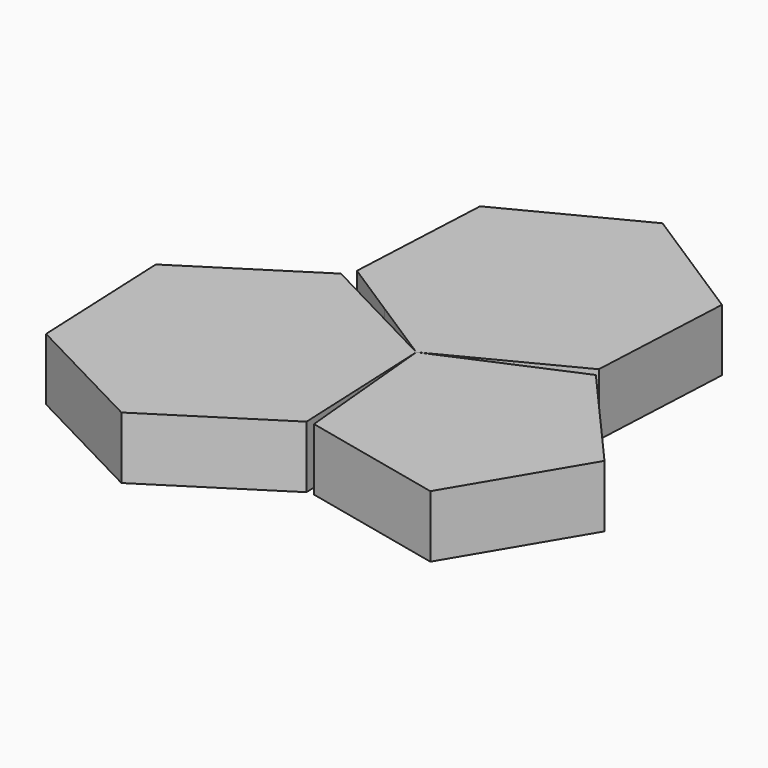
from build123d import *

# Parameters (mm, degrees)
F1_DEPTH = 25.4


with BuildPart() as f1:
    # F0 (on Top) → F1 (new body)
    with BuildSketch(Plane.XY):
        with BuildLine():
            ThreePointArc((-26.6405862454, 17.1343847799), (1.5185193749, 31.6386168502), (28.1591056203, 14.5042320703))
            Line((28.1591056203, 14.5042320703), (52.8595212289, 27.2269571827))
            Line((52.8595212289, 27.2269571827), (55.7100452554, 86.6181239901))
            Line((55.7100452554, 86.6181239901), (5.701048053, 118.7823336148))
            Line((5.701048053, 118.7823336148), (-47.1584731759, 91.5553764322))
            Line((-47.1584731759, 91.5553764322), (-50.0089972024, 32.1642096247))
            Line((-50.0089972024, 32.1642096247), (-26.6405862454, 17.1343847799))
        make_face()
        with BuildLine():
            Line((0, 0), (28.1591056203, 14.5042320703))
            ThreePointArc((28.1591056203, 14.5042320703), (1.5185193749, 31.6386168502), (-26.6405862454, 17.1343847799))
            Line((-26.6405862454, 17.1343847799), (0, 0))
        make_face()
    extrude(amount=F1_DEPTH)


with BuildPart() as f1b:
    # F0 (on Top) → F1, piece 2 (new body)
    with BuildSketch(Plane.XY):
        with BuildLine():
            Line((2.6241702257, -59.4015985694), (1.397937114, -31.6441740153))
            ThreePointArc((1.397937114, -31.6441740153), (-26.705690022, -17.0327360612), (-28.103627136, 14.6114379541))
            Line((-28.103627136, 14.6114379541), (-52.7553784994, 27.4282012053))
            Line((-52.7553784994, 27.4282012053), (-102.886586773, -4.5451961587))
            Line((-102.886586773, -4.5451961587), (-100.2624165472, -63.9467947281))
            Line((-100.2624165472, -63.9467947281), (-47.5070380479, -91.3749959334))
            Line((-47.5070380479, -91.3749959334), (2.6241702257, -59.4015985694))
        make_face()
        with BuildLine():
            Line((1.397937114, -31.6441740153), (0, 0))
            Line((0, 0), (-28.103627136, 14.6114379541))
            ThreePointArc((-28.103627136, 14.6114379541), (-26.705690022, -17.0327360612), (1.397937114, -31.6441740153))
        make_face()
    extrude(amount=F1_DEPTH)


with BuildPart() as f1c:
    # F0 (on Top) → F1, piece 3 (new body)
    with BuildSketch(Plane.XY):
        with BuildLine():
            ThreePointArc((29.0862627469, 12.5418219052), (31.0210930643, 6.4031056823), (31.6750371315, 0))
            ThreePointArc((31.6750371315, 0), (23.413962327, -21.3329403842), (2.9398319575, -31.5383158292))
            Line((2.9398319575, -31.5383158292), (5.5185740578, -59.202884409))
            Line((5.5185740578, -59.202884409), (63.529196227, -72.249105989))
            Line((63.529196227, -72.249105989), (93.8631583783, -21.1092299413))
            Line((93.8631583783, -21.1092299413), (54.599955832, 23.5431732167))
            Line((54.599955832, 23.5431732167), (29.0862627469, 12.5418219052))
        make_face()
        with BuildLine():
            ThreePointArc((2.9398319575, -31.5383158292), (23.413962327, -21.3329403842), (31.6750371315, 0))
            ThreePointArc((31.6750371315, 0), (31.0210930643, 6.4031056823), (29.0862627469, 12.5418219052))
            Line((29.0862627469, 12.5418219052), (0, 0))
            Line((0, 0), (2.9398319575, -31.5383158292))
        make_face()
    extrude(amount=F1_DEPTH)


solid = Compound([f1.part, f1b.part, f1c.part])
